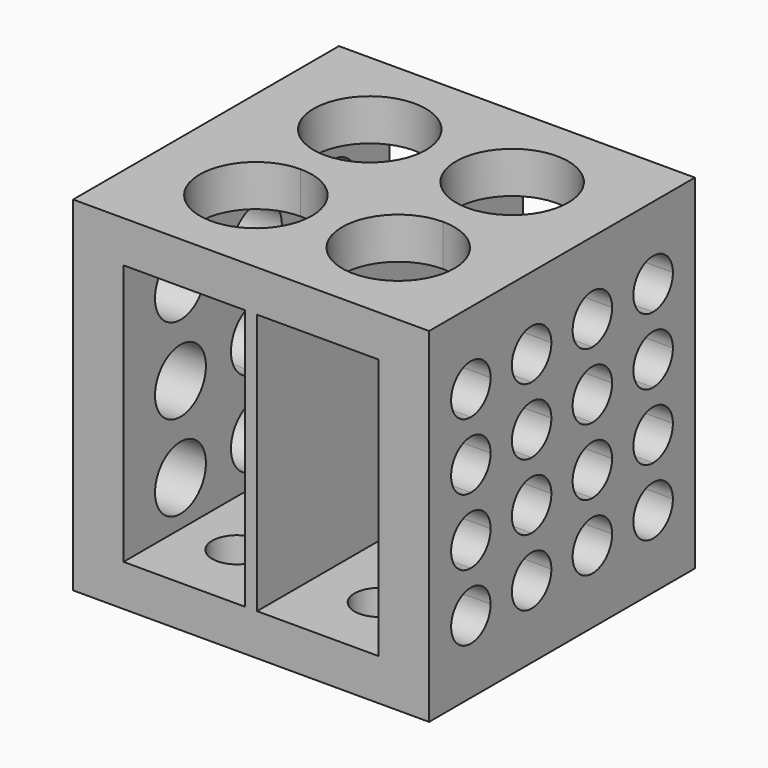
from build123d import *

# Parameters (mm, degrees)
F0_W          = 95.25
F0_H          = 88.9
F1_DEPTH      = 46.0375
F1_DEPTH_BACK = 46.0375
F2_W          = 32.54375
F2_H          = 69.85
F3_DEPTH      = 88.9
F5_DEPTH      = 11.1125
F6_R          = 8.509
F7_DEPTH      = 13.49375
F8_R          = 6.604
F9_DEPTH      = 11.1125
F11_DEPTH     = 13.49375


with BuildPart() as f1:
    # F0 (on Top) → F1 (new body, two sides)
    with BuildSketch(Plane.XY) as f1_sk:
        Rectangle(F0_W, F0_H)
    extrude(amount=F1_DEPTH)
    extrude(f1_sk.sketch, amount=-F1_DEPTH_BACK)

    # F2 (on face) → F3 (cut, through all)
    with BuildSketch(Plane.XZ.offset(44.45)):
        with Locations((17.859375, 0)):
            Rectangle(F2_W, F2_H)
        with Locations((-17.859375, 0)):
            Rectangle(F2_W, F2_H)
    extrude(amount=-F3_DEPTH, mode=Mode.SUBTRACT)

    # F4 (on face) → F5 (cut, through all)
    with BuildSketch(Plane.XY.offset(46.0375)):
        with BuildLine():
            ThreePointArc((-4.05003, 19.05), (-29.6565805046, 29.6565805046), (-19.05, 4.05003))
            ThreePointArc((-19.05, 4.05003), (-8.4434194954, 8.4434194954), (-4.05003, 19.05))
        make_face()
        with BuildLine():
            ThreePointArc((34.04997, 19.05), (8.4434194954, 29.6565805046), (19.05, 4.05003))
            ThreePointArc((19.05, 4.05003), (29.6565805046, 8.4434194954), (34.04997, 19.05))
        make_face()
        with BuildLine():
            ThreePointArc((34.04997, -19.05), (29.6565805046, -8.4434194954), (19.05, -4.05003))
            ThreePointArc((19.05, -4.05003), (8.4434194954, -29.6565805046), (34.04997, -19.05))
        make_face()
        with BuildLine():
            ThreePointArc((-4.05003, -19.05), (-8.4434194954, -8.4434194954), (-19.05, -4.05003))
            ThreePointArc((-19.05, -4.05003), (-29.6565805046, -29.6565805046), (-4.05003, -19.05))
        make_face()
    extrude(amount=-F5_DEPTH, mode=Mode.SUBTRACT)

    # F6 (on face) → F7 (cut, through all)
    with BuildSketch(Plane(origin=(-47.625, 0, 0), x_dir=(0, -1, 0), z_dir=(-1, 0, 0))):
        with BuildLine():
            ThreePointArc((0, -8.509), (6.0167716011, -6.0167716011), (8.509, 0))
            ThreePointArc((8.509, 0), (6.0167716011, 6.0167716011), (0, 8.509))
            Line((0, 8.509), (0, 0))
            Line((0, 0), (0, -8.509))
        make_face()
        with BuildLine():
            ThreePointArc((8.509, -22.86), (6.0167716011, -16.8432283989), (0, -14.351))
            ThreePointArc((0, -14.351), (-6.0167716011, -28.8767716011), (8.509, -22.86))
        make_face()
        with BuildLine():
            ThreePointArc((8.509, 22.86), (-6.0167716011, 28.8767716011), (0, 14.351))
            ThreePointArc((0, 14.351), (6.0167716011, 16.8432283989), (8.509, 22.86))
        make_face()
        with BuildLine():
            Line((0, 0), (0, 8.509))
            ThreePointArc((0, 8.509), (-8.509, 0), (0, -8.509))
            Line((0, -8.509), (0, 0))
        make_face()
        with Locations((-25.4, 22.86)):
            Circle(F6_R)
        with Locations((-25.4, 0)):
            Circle(F6_R)
        with Locations((-25.4, -22.86)):
            Circle(F6_R)
        with Locations((25.4, 22.86)):
            Circle(F6_R)
        with Locations((25.4, 0)):
            Circle(F6_R)
        with Locations((25.4, -22.86)):
            Circle(F6_R)
    extrude(amount=-F7_DEPTH, mode=Mode.SUBTRACT)

    # F8 (on face) → F9 (cut, through all)
    with BuildSketch(Plane(origin=(0, 0, -46.0375), x_dir=(1, 0, 0), z_dir=(0, 0, -1))):
        with BuildLine():
            ThreePointArc((-19.05, -6.604), (-14.380266817, -4.669733183), (-12.446, 0))
            Line((-12.446, 0), (-19.05, 0))
            Line((-19.05, 0), (-19.05, -6.604))
        make_face()
        with BuildLine():
            Line((-19.05, 0), (-12.446, 0))
            ThreePointArc((-12.446, 0), (-14.380266817, 4.669733183), (-19.05, 6.604))
            Line((-19.05, 6.604), (-19.05, 0))
        make_face()
        with BuildLine():
            ThreePointArc((-12.446, -25.4), (-14.380266817, -20.730266817), (-19.05, -18.796))
            ThreePointArc((-19.05, -18.796), (-23.719733183, -30.069733183), (-12.446, -25.4))
        make_face()
        with BuildLine():
            ThreePointArc((-12.446, 25.4), (-23.719733183, 30.069733183), (-19.05, 18.796))
            ThreePointArc((-19.05, 18.796), (-14.380266817, 20.730266817), (-12.446, 25.4))
        make_face()
        with BuildLine():
            Line((-19.05, -6.604), (-19.05, 0))
            Line((-19.05, 0), (-19.05, 6.604))
            ThreePointArc((-19.05, 6.604), (-25.654, 0), (-19.05, -6.604))
        make_face()
        with BuildLine():
            ThreePointArc((19.05, 18.796), (23.719733183, 20.730266817), (25.654, 25.4))
            ThreePointArc((25.654, 25.4), (14.380266817, 30.069733183), (19.05, 18.796))
        make_face()
        with BuildLine():
            ThreePointArc((25.654, 0), (23.719733183, 4.669733183), (19.05, 6.604))
            ThreePointArc((19.05, 6.604), (14.380266817, -4.669733183), (25.654, 0))
        make_face()
        with Locations((19.05, -25.4)):
            Circle(F8_R)
    extrude(amount=-F9_DEPTH, mode=Mode.SUBTRACT)

    # F10 (on face) → F11 (cut, through all)
    with BuildSketch(Plane.YZ.offset(47.625)):
        with BuildLine():
            ThreePointArc((-23.876, -26.67), (-25.810266817, -22.000266817), (-30.48, -20.066))
            ThreePointArc((-30.48, -20.066), (-35.149733183, -31.339733183), (-23.876, -26.67))
        make_face()
        with BuildLine():
            ThreePointArc((-23.876, -8.89), (-25.810266817, -4.220266817), (-30.48, -2.286))
            Line((-30.48, -2.286), (-30.48, -8.89))
            Line((-30.48, -8.89), (-30.48, -15.494))
            ThreePointArc((-30.48, -15.494), (-25.810266817, -13.559733183), (-23.876, -8.89))
        make_face()
        with BuildLine():
            Line((-30.48, -8.89), (-30.48, -2.286))
            ThreePointArc((-30.48, -2.286), (-37.084, -8.89), (-30.48, -15.494))
            Line((-30.48, -15.494), (-30.48, -8.89))
        make_face()
        with BuildLine():
            ThreePointArc((-23.876, 26.67), (-35.149733183, 31.339733183), (-30.48, 20.066))
            ThreePointArc((-30.48, 20.066), (-25.810266817, 22.000266817), (-23.876, 26.67))
        make_face()
        with BuildLine():
            ThreePointArc((-30.48, 15.494), (-37.084, 8.89), (-30.48, 2.286))
            Line((-30.48, 2.286), (-30.48, 8.89))
            Line((-30.48, 8.89), (-30.48, 15.494))
        make_face()
        with BuildLine():
            Line((-30.48, 8.89), (-30.48, 2.286))
            ThreePointArc((-30.48, 2.286), (-25.810266817, 4.220266817), (-23.876, 8.89))
            ThreePointArc((-23.876, 8.89), (-25.810266817, 13.559733183), (-30.48, 15.494))
            Line((-30.48, 15.494), (-30.48, 8.89))
        make_face()
        with BuildLine():
            ThreePointArc((-3.556, -26.67), (-5.490266817, -22.000266817), (-10.16, -20.066))
            ThreePointArc((-10.16, -20.066), (-14.829733183, -31.339733183), (-3.556, -26.67))
        make_face()
        with BuildLine():
            ThreePointArc((-3.556, -8.89), (-5.490266817, -4.220266817), (-10.16, -2.286))
            Line((-10.16, -2.286), (-10.16, -8.89))
            Line((-10.16, -8.89), (-10.16, -15.494))
            ThreePointArc((-10.16, -15.494), (-5.490266817, -13.559733183), (-3.556, -8.89))
        make_face()
        with BuildLine():
            Line((-10.16, -8.89), (-10.16, -2.286))
            ThreePointArc((-10.16, -2.286), (-16.764, -8.89), (-10.16, -15.494))
            Line((-10.16, -15.494), (-10.16, -8.89))
        make_face()
        with BuildLine():
            ThreePointArc((-3.556, 26.67), (-14.829733183, 31.339733183), (-10.16, 20.066))
            ThreePointArc((-10.16, 20.066), (-5.490266817, 22.000266817), (-3.556, 26.67))
        make_face()
        with BuildLine():
            ThreePointArc((-10.16, 15.494), (-16.764, 8.89), (-10.16, 2.286))
            Line((-10.16, 2.286), (-10.16, 8.89))
            Line((-10.16, 8.89), (-10.16, 15.494))
        make_face()
        with BuildLine():
            Line((-10.16, 8.89), (-10.16, 2.286))
            ThreePointArc((-10.16, 2.286), (-5.490266817, 4.220266817), (-3.556, 8.89))
            ThreePointArc((-3.556, 8.89), (-5.490266817, 13.559733183), (-10.16, 15.494))
            Line((-10.16, 15.494), (-10.16, 8.89))
        make_face()
        with BuildLine():
            ThreePointArc((10.16, 20.066), (14.829733183, 22.000266817), (16.764, 26.67))
            ThreePointArc((16.764, 26.67), (5.490266817, 31.339733183), (10.16, 20.066))
        make_face()
        with BuildLine():
            ThreePointArc((16.764, -26.67), (14.829733183, -22.000266817), (10.16, -20.066))
            ThreePointArc((10.16, -20.066), (5.490266817, -31.339733183), (16.764, -26.67))
        make_face()
        with BuildLine():
            ThreePointArc((16.764, -8.89), (14.829733183, -4.220266817), (10.16, -2.286))
            Line((10.16, -2.286), (10.16, -8.89))
            Line((10.16, -8.89), (10.16, -15.494))
            ThreePointArc((10.16, -15.494), (14.829733183, -13.559733183), (16.764, -8.89))
        make_face()
        with BuildLine():
            Line((10.16, -8.89), (10.16, -2.286))
            ThreePointArc((10.16, -2.286), (3.556, -8.89), (10.16, -15.494))
            Line((10.16, -15.494), (10.16, -8.89))
        make_face()
        with BuildLine():
            ThreePointArc((16.764, 8.89), (14.829733183, 13.559733183), (10.16, 15.494))
            Line((10.16, 15.494), (10.16, 8.89))
            Line((10.16, 8.89), (10.16, 2.286))
            ThreePointArc((10.16, 2.286), (14.829733183, 4.220266817), (16.764, 8.89))
        make_face()
        with BuildLine():
            Line((10.16, 8.89), (10.16, 15.494))
            ThreePointArc((10.16, 15.494), (3.556, 8.89), (10.16, 2.286))
            Line((10.16, 2.286), (10.16, 8.89))
        make_face()
        with BuildLine():
            ThreePointArc((30.48, 20.066), (35.149733183, 22.000266817), (37.084, 26.67))
            ThreePointArc((37.084, 26.67), (25.810266817, 31.339733183), (30.48, 20.066))
        make_face()
        with BuildLine():
            ThreePointArc((37.084, -26.67), (35.149733183, -22.000266817), (30.48, -20.066))
            ThreePointArc((30.48, -20.066), (25.810266817, -31.339733183), (37.084, -26.67))
        make_face()
        with BuildLine():
            ThreePointArc((37.084, -8.89), (35.149733183, -4.220266817), (30.48, -2.286))
            Line((30.48, -2.286), (30.48, -8.89))
            Line((30.48, -8.89), (30.48, -15.494))
            ThreePointArc((30.48, -15.494), (35.149733183, -13.559733183), (37.084, -8.89))
        make_face()
        with BuildLine():
            Line((30.48, -8.89), (30.48, -2.286))
            ThreePointArc((30.48, -2.286), (23.876, -8.89), (30.48, -15.494))
            Line((30.48, -15.494), (30.48, -8.89))
        make_face()
        with BuildLine():
            ThreePointArc((37.084, 8.89), (35.149733183, 13.559733183), (30.48, 15.494))
            Line((30.48, 15.494), (30.48, 8.89))
            Line((30.48, 8.89), (30.48, 2.286))
            ThreePointArc((30.48, 2.286), (35.149733183, 4.220266817), (37.084, 8.89))
        make_face()
        with BuildLine():
            Line((30.48, 8.89), (30.48, 15.494))
            ThreePointArc((30.48, 15.494), (23.876, 8.89), (30.48, 2.286))
            Line((30.48, 2.286), (30.48, 8.89))
        make_face()
    extrude(amount=-F11_DEPTH, mode=Mode.SUBTRACT)


solid = f1.part
